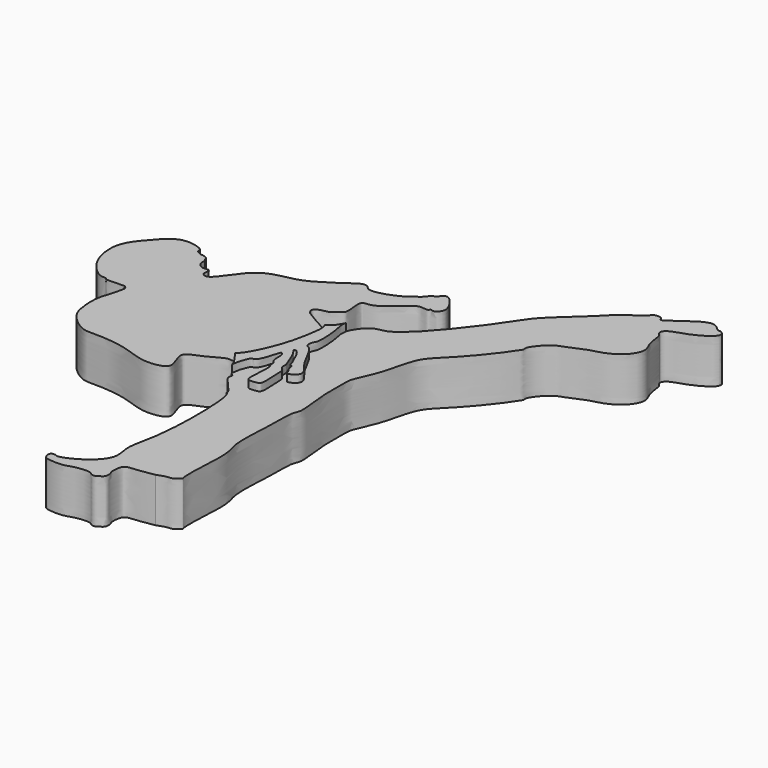
from build123d import *

# Parameters (mm, degrees)
F1_DEPTH = 6
F2_DEPTH = 7


with BuildPart() as f1:
    # F0 (on Top) → F1 (new body)
    with BuildSketch(Plane.XY):
        with BuildLine():
            add(Edge.make_bspline(
                [(-37.4383591115, 43.8860505819), (-37.5922037064, 44.1461524764), (-37.9241896232, 44.7074342425), (-36.7500254387, 45.2129809211), (-35.686571316, 45.2723867407), (-35.2297792602, 46.0957349356), (-34.2321932477, 46.2256408688), (-35.1228094568, 49.5524932795), (-33.2162595679, 48.9125717062), (-30.6631219351, 51.4132284412), (-29.9344414313, 51.9791404191), (-29.177069738, 52.365147907), (-28.055995878, 52.0511383246), (-28.0052005078, 52.5215481562), (-27.4017738984, 52.1922459973), (-26.7448857441, 52.880288695), (-26.5421000495, 53.7495844087), (-27.9544134397, 55.8773558018), (-28.8923098102, 55.8754182778), (-29.3720268326, 54.9105095398), (-29.7630370961, 55.1892381953), (-30.6269776516, 53.7811623089), (-31.1242664672, 53.9114384939), (-31.5141826378, 53.1207497994), (-34.4632717458, 51.8578154603), (-36.0823602954, 51.8450729867), (-36.4017117071, 52.4795845874), (-37.2997431718, 52.7026018314), (-38.970431851, 51.2827644957), (-39.9110902355, 50.8469896884), (-42.9874335864, 48.5500443996), (-47.9883169371, 48.6253798144), (-50.5754905137, 43.0179590107), (-51.8949170662, 43.8289721488), (-51.7253529565, 44.3568051163), (-51.7439679248, 44.6081930656), (-51.7526827753, 44.7258837521)],
                knots=[0, 0, 0, 0, 0.023402713, 0.0505014241, 0.078243759, 0.1024450143, 0.1250764709, 0.1676772223, 0.1973585708, 0.2471144478, 0.2735471624, 0.297599214, 0.3243445551, 0.3376406788, 0.3563710246, 0.3804379521, 0.4053160592, 0.4466002339, 0.4695976706, 0.4945790187, 0.5089200864, 0.5411813657, 0.5578723867, 0.5803362699, 0.6286174597, 0.661401555, 0.6813934998, 0.7046744024, 0.7429521034, 0.7714698551, 0.8214548166, 0.8811204271, 0.9416890308, 0.9653808321, 0.9837925658, 1, 1, 1, 1], degree=3))
            add(Edge.make_bspline(
                [(-51.7526827753, 44.7258837521), (-51.8031623924, 44.8008734388), (-51.938467559, 45.0018752021), (-52.7431876727, 44.6903589681), (-53.6679933193, 45.4726450871), (-53.4247327427, 46.3726233814), (-53.7623298188, 46.496569747), (-53.5806776466, 46.8090624032), (-54.4755384717, 47.1703721438), (-54.5640556487, 47.0504045065), (-55.6607521141, 47.4622088467), (-55.2019545635, 48.1197792417), (-58.6006493801, 49.1395427323), (-60.8217553767, 46.5236683663), (-62.3013125819, 44.8860146269), (-63.0152491598, 43.3097968179), (-63.1000463462, 41.5283773342), (-62.512461762, 38.8355627574), (-60.1998740627, 36.5049641069), (-59.333242476, 36.7052219808), (-59.1034367681, 36.6067327559)],
                knots=[0, 0, 0, 0, 0.0268079234, 0.071855746, 0.1254714761, 0.1720856418, 0.1970514479, 0.2217940713, 0.2687762271, 0.2905302816, 0.3412246549, 0.374399202, 0.4604908433, 0.5562475412, 0.6347272375, 0.7013902907, 0.7699501136, 0.8579059053, 0.9493365333, 1, 1, 1, 1], degree=3))
            add(Edge.make_bspline(
                [(-59.1034367681, 36.6067327559), (-59.0883942259, 36.5441418052), (-59.0237803431, 36.2752880232), (-56.1156201325, 36.6478881787), (-56.4426209586, 36.2588059332), (-56.0132256534, 36.288198829), (-56.3006142919, 35.3303465437), (-56.2925444506, 34.9637656418), (-57.1997540377, 32.6456817144), (-57.0089645476, 30.1477948486), (-56.6507229215, 28.0408401285), (-53.9772548174, 25.870940761), (-52.2841036909, 25.9844997015), (-48.1226391415, 25.8162494482), (-45.0562185052, 24.3862367441), (-42.574821013, 24.4061312537), (-40.7597990869, 25.2496125489), (-42.8252923629, 28.3224498432), (-39.9538749836, 28.9264991842), (-37.682825416, 30.6497468766), (-36.9861867326, 30.1853134735), (-36.6754420102, 30.3380247205)],
                knots=[0, 0, 0, 0, 0.0145188573, 0.0623644416, 0.0728549549, 0.0865331181, 0.1133357964, 0.1334258164, 0.1787726159, 0.2270145983, 0.270428739, 0.3229698168, 0.3620832571, 0.4221644896, 0.4781140683, 0.5247679296, 0.5599451677, 0.6076757468, 0.6524168484, 0.7022366325, 0.730938832, 0.730938832, 0.730938832, 0.730938832], degree=3))
            add(Edge.make_bspline(
                [(-36.6754420102, 30.3380247205), (-35.983352609, 30.6781425983), (-34.0466723667, 34.5494549383), (-33.2522831009, 38.3940211283), (-32.9422929632, 40.624105503), (-33.2663618028, 41.2331409752)],
                knots=[0.730938832, 0.730938832, 0.730938832, 0.730938832, 0.7948642557, 0.8585212876, 0.9064207194, 0.9064207194, 0.9064207194, 0.9064207194], degree=3))
            add(Edge.make_bspline(
                [(-33.2663618028, 41.2331409752), (-33.5487054251, 41.7637605853), (-34.9599851099, 42.3604134711), (-36.5547745423, 43.3421337201), (-37.4383591115, 43.8860505819)],
                knots=[0.9064207194, 0.9064207194, 0.9064207194, 0.9064207194, 0.9481528993, 1, 1, 1, 1], degree=3))
        make_face()
    extrude(amount=F1_DEPTH)


with BuildPart() as f1b:
    # F0 (on Top) → F1, piece 2 (new body)
    with BuildSketch(Plane.XY):
        with BuildLine():
            add(Edge.make_bspline(
                [(-30.5477995425, 32.2638936341), (-30.8259861982, 32.9318374784), (-31.2816634665, 34.0259475666), (-31.9602367436, 34.8843429425), (-32.3592444627, 34.6792088573), (-31.6664294702, 34.0848684637), (-30.9058128534, 31.7362996505), (-30.7552317832, 31.5590472352), (-30.8924777047, 30.786324938), (-30.1897658271, 30.4299136187), (-30.3102745341, 29.2372777766), (-29.9929347991, 26.6320859943), (-30.7006366063, 26.4277102856), (-31.7220006078, 26.3276921777), (-32.1341794292, 26.8166201283), (-31.5795252587, 30.5492707862), (-32.2581120518, 30.3237563387), (-31.9489549464, 31.1820106544), (-32.6111029681, 31.3412009001), (-32.4193759611, 32.9974050461), (-32.9955320646, 33.7533551936), (-33.3015650113, 31.8295593185), (-34.1063608356, 30.2681945805), (-34.6000410032, 30.6372395968), (-35.1339531533, 29.0576720566), (-35.2066699544, 28.5977991996), (-35.2874309994, 28.2161022776), (-35.2701960817, 28.0838639306)],
                knots=[0, 0, 0, 0, 0.026350934, 0.0440943278, 0.0523191965, 0.0684796068, 0.0975180261, 0.1069266163, 0.1217127643, 0.1362142844, 0.1563820745, 0.1853711669, 0.199248541, 0.2170394707, 0.2309489717, 0.2651055639, 0.2741628536, 0.2887613758, 0.3016133236, 0.3249696218, 0.3377177808, 0.3611883611, 0.384876227, 0.3947839463, 0.416858277, 0.4317482235, 0.4414812599, 0.4414812599, 0.4414812599, 0.4414812599], degree=3))
            add(Edge.make_bspline(
                [(-35.2701960817, 28.0838639306), (-35.2514698901, 28.0308205053), (-35.233528157, 27.9783021368), (-35.2155864239, 27.9257837683)],
                knots=[0.9153184365, 0.9153184365, 0.9153184365, 0.9153184365, 1, 1, 1, 1], degree=3))
            add(Edge.make_bspline(
                [(-35.2155864239, 27.9257837683), (-35.1225894441, 27.782231859), (-34.6608945354, 27.614717869), (-35.4287186056, 26.9241398056), (-32.6245758386, 24.5321166679), (-33.0277636384, 24.1541216624), (-32.0885858298, 24.0911045909), (-31.9411897651, 12.1038293897), (-33.5836089863, 8.051166642), (-32.4174748212, 5.1243343643), (-35.3776083056, 2.4212814166), (-37.8762216183, 1.5497030489), (-38.0211900926, 1.8671135421), (-38.9238343546, 1.8651286022), (-38.7055881932, 0.8412195129), (-38.2080148566, 0.4964705787), (-35.9286064778, 0.4000078887), (-35.0287203768, 0.9468382475), (-32.6502192496, 1.1685415698), (-32.532715294, 0.65658837), (-31.7430080487, 0.6304241584), (-31.6377484617, 0.8742342732), (-30.7774356885, 1.165388718), (-30.9544720827, 2.3284060591), (-31.158770279, 2.4029265582), (-31.104981997, 3.6820102301), (-30.6325457375, 4.6275997449), (-29.1107411732, 4.4015754198), (-27.0513445139, 4.8440368846)],
                knots=[0.4456976348, 0.4456976348, 0.4456976348, 0.4456976348, 0.4585739807, 0.4725576344, 0.5060068273, 0.5148839401, 0.5254280548, 0.5874186576, 0.6287930189, 0.6576619848, 0.6937200974, 0.7220001149, 0.7309208169, 0.7456340152, 0.761797375, 0.7760836495, 0.8027701879, 0.8238233535, 0.8505191429, 0.8621492205, 0.8769553095, 0.8860787277, 0.9022368158, 0.9204446704, 0.9284910699, 0.9484642143, 0.9648149069, 1, 1, 1, 1], degree=3))
            add(Edge.make_bspline(
                [(-27.0513445139, 4.8440368846), (-26.5715850361, 5.02668558), (-25.7692558933, 5.3321394126), (-25.1945696671, 5.1776198493), (-24.1699680164, 5.9754241401), (-24.4116801624, 6.2516694153), (-24.4374501762, 8.6176287809), (-24.0020917074, 13.5943611221), (-25.1122509655, 15.6383425614), (-24.519956342, 21.8193155119), (-24.7076905628, 24.8144418561), (-23.9484046471, 25.8194209262), (-24.704400714, 29.692309476), (-24.5287199142, 33.4343587304), (-24.6021269008, 34.7974330264), (-22.9225541127, 37.7410940651), (-22.166577687, 42.7676878783), (-19.9498989296, 44.6766003341), (-16.1617451148, 48.9363176691), (-14.973021169, 50.9596005241), (-14.5403063749, 51.4222300614), (-14.803145411, 52.0042819573), (-13.4474233312, 53.6264440966), (-13.1376790476, 53.7318536856), (-12.3607297609, 54.4038722663), (-11.8381828715, 54.4667755875), (-9.1663354896, 55.7625136469), (-7.763487121, 55.9199559546), (-5.4276180463, 57.0644778772), (-4.1330877594, 59.3427786116), (-5.285172611, 60.8422234277), (-5.218563354, 62.8319014001), (-5.9765998061, 63.3580009312), (-5.6057798054, 64.271708433), (-3.5479768912, 64.8116517948), (-1.6190407064, 65.7194126331), (-0.4403022411, 66.7003558794), (-0.4881996106, 67.1271001649), (-0.506217475, 67.2876313329)],
                knots=[0, 0, 0, 0, 0.0236671485, 0.0395799225, 0.0609034924, 0.0705469814, 0.1008322238, 0.1464533707, 0.1781330576, 0.2285892844, 0.2634004859, 0.2841807279, 0.3242095931, 0.3640485341, 0.3869617071, 0.4237351652, 0.4690283206, 0.5042636855, 0.5531433693, 0.584028731, 0.5980503604, 0.61286047, 0.6413481076, 0.6545839422, 0.6737771046, 0.689549085, 0.7236295975, 0.749272883, 0.7814070532, 0.8122424185, 0.8390460795, 0.8669130477, 0.8844111525, 0.9013627368, 0.9306548326, 0.9616789329, 0.9855845154, 1, 1, 1, 1], degree=3))
            add(Edge.make_bspline(
                [(-0.506217475, 67.2876313329), (-0.6537367831, 67.4513061432), (-0.9239609841, 67.7511238106), (-1.4450250762, 67.4905888144), (-2.731968677, 69.6397734175), (-6.9702444973, 65.7334571811), (-7.6850931813, 65.7172250878), (-7.7006838289, 66.2818273814), (-8.9099153739, 66.311038728), (-9.2570823525, 65.356575894), (-11.5271342324, 64.2830400177), (-13.0558267349, 62.368806712), (-17.8943966838, 58.212705388), (-18.9978445878, 56.4806960241), (-22.2583024945, 51.6455176424), (-27.8549691264, 45.1993592961), (-30.1403324886, 45.6956114979), (-31.5792162756, 43.7393994248), (-31.8009853363, 42.9518073797)],
                knots=[0, 0, 0, 0, 0.0195525864, 0.035811718, 0.0685459036, 0.1270648111, 0.1449908802, 0.1608196821, 0.1856208627, 0.2103843916, 0.2491653059, 0.2919717004, 0.3559571131, 0.393742573, 0.4566867913, 0.5309091658, 0.567120161, 0.6107167779, 0.6107167779, 0.6107167779, 0.6107167779], degree=3))
            add(Edge.make_bspline(
                [(-31.8009853363, 42.9518073797), (-31.9835913162, 42.3032993477), (-31.5231626493, 41.2487520705), (-31.3514866101, 37.6798323756), (-31.7708803543, 37.451018234), (-31.9722383495, 36.2762544023), (-31.1449799863, 36.2544957586), (-30.0378102711, 33.9471282602), (-29.3010020442, 32.6705591271), (-27.8674265498, 31.1277234947), (-28.8046664653, 30.2005494014), (-29.6015184284, 30.0074054541), (-29.5996137081, 30.566226712), (-30.0731113389, 30.9302547356), (-30.0332290243, 31.7869425738), (-30.50059334, 31.8332616908), (-30.5495296596, 32.1146365113), (-30.5477995425, 32.2638936341)],
                knots=[0.6107167779, 0.6107167779, 0.6107167779, 0.6107167779, 0.6466144947, 0.693376875, 0.7109623935, 0.735681403, 0.7555531863, 0.7953750401, 0.8295963171, 0.8637503019, 0.8901725632, 0.9107672303, 0.9269201805, 0.9466634509, 0.9687907127, 0.9839058477, 1, 1, 1, 1], degree=3))
        make_face()
    extrude(amount=F1_DEPTH)


with BuildPart() as f2:
    # F0 (on Top) → F2 (new body)
    with BuildSketch(Plane.XY):
        with BuildLine():
            add(Edge.make_bspline(
                [(-36.6754420102, 30.3380247205), (-35.983352609, 30.6781425983), (-34.0466723667, 34.5494549383), (-33.2522831009, 38.3940211283), (-32.9422929632, 40.624105503), (-33.2663618028, 41.2331409752)],
                knots=[0.730938832, 0.730938832, 0.730938832, 0.730938832, 0.7948642557, 0.8585212876, 0.9064207194, 0.9064207194, 0.9064207194, 0.9064207194], degree=3))
            add(Edge.make_bspline(
                [(-36.6754420102, 30.3380247205), (-36.2383596816, 29.7576702511), (-35.5733840075, 28.8747207945), (-35.3395640048, 28.2803540824), (-35.2701960817, 28.0838639306)],
                knots=[0, 0, 0, 0, 0.601630299, 0.9153184365, 0.9153184365, 0.9153184365, 0.9153184365], degree=3))
            add(Edge.make_bspline(
                [(-30.5477995425, 32.2638936341), (-30.8259861982, 32.9318374784), (-31.2816634665, 34.0259475666), (-31.9602367436, 34.8843429425), (-32.3592444627, 34.6792088573), (-31.6664294702, 34.0848684637), (-30.9058128534, 31.7362996505), (-30.7552317832, 31.5590472352), (-30.8924777047, 30.786324938), (-30.1897658271, 30.4299136187), (-30.3102745341, 29.2372777766), (-29.9929347991, 26.6320859943), (-30.7006366063, 26.4277102856), (-31.7220006078, 26.3276921777), (-32.1341794292, 26.8166201283), (-31.5795252587, 30.5492707862), (-32.2581120518, 30.3237563387), (-31.9489549464, 31.1820106544), (-32.6111029681, 31.3412009001), (-32.4193759611, 32.9974050461), (-32.9955320646, 33.7533551936), (-33.3015650113, 31.8295593185), (-34.1063608356, 30.2681945805), (-34.6000410032, 30.6372395968), (-35.1339531533, 29.0576720566), (-35.2066699544, 28.5977991996), (-35.2874309994, 28.2161022776), (-35.2701960817, 28.0838639306)],
                knots=[0, 0, 0, 0, 0.026350934, 0.0440943278, 0.0523191965, 0.0684796068, 0.0975180261, 0.1069266163, 0.1217127643, 0.1362142844, 0.1563820745, 0.1853711669, 0.199248541, 0.2170394707, 0.2309489717, 0.2651055639, 0.2741628536, 0.2887613758, 0.3016133236, 0.3249696218, 0.3377177808, 0.3611883611, 0.384876227, 0.3947839463, 0.416858277, 0.4317482235, 0.4414812599, 0.4414812599, 0.4414812599, 0.4414812599], degree=3))
            add(Edge.make_bspline(
                [(-31.8009853363, 42.9518073797), (-31.9835913162, 42.3032993477), (-31.5231626493, 41.2487520705), (-31.3514866101, 37.6798323756), (-31.7708803543, 37.451018234), (-31.9722383495, 36.2762544023), (-31.1449799863, 36.2544957586), (-30.0378102711, 33.9471282602), (-29.3010020442, 32.6705591271), (-27.8674265498, 31.1277234947), (-28.8046664653, 30.2005494014), (-29.6015184284, 30.0074054541), (-29.5996137081, 30.566226712), (-30.0731113389, 30.9302547356), (-30.0332290243, 31.7869425738), (-30.50059334, 31.8332616908), (-30.5495296596, 32.1146365113), (-30.5477995425, 32.2638936341)],
                knots=[0.6107167779, 0.6107167779, 0.6107167779, 0.6107167779, 0.6466144947, 0.693376875, 0.7109623935, 0.735681403, 0.7555531863, 0.7953750401, 0.8295963171, 0.8637503019, 0.8901725632, 0.9107672303, 0.9269201805, 0.9466634509, 0.9687907127, 0.9839058477, 1, 1, 1, 1], degree=3))
            add(Edge.make_bspline(
                [(-33.2663618028, 41.2331409752), (-33.0320313974, 41.361550997), (-32.4878244142, 41.6597693629), (-32.0501826663, 42.483033202), (-31.8009853363, 42.9518073797)],
                knots=[0, 0, 0, 0, 0.430590589, 1, 1, 1, 1], degree=3))
        make_face()
    extrude(amount=F2_DEPTH)


solid = Compound([f1.part, f1b.part, f2.part])
